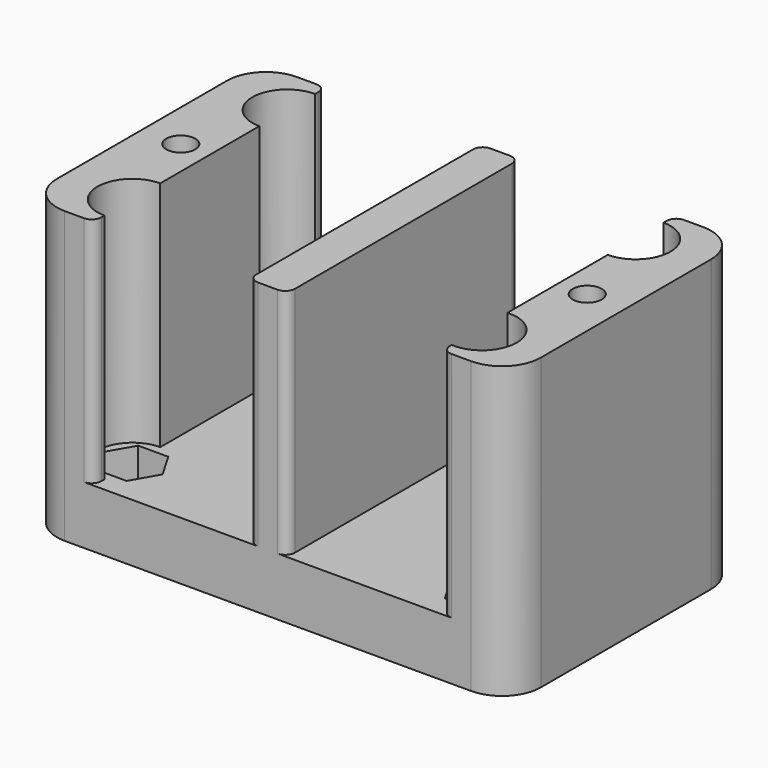
from build123d import *

# Parameters (mm, degrees)
SKETCH_W        = 50
SKETCH_H        = 30
SKETCH_R        = 1.7
PAD_DEPTH       = 30
SKETCH001_W     = 16
SKETCH001_H     = 35
POCKET_DEPTH    = 24
POCKET001_DEPTH = 4
SKETCH003_R     = 2.5
POCKET002_DEPTH = 1.7
SKETCH004_R     = 3.6
POCKET003_DEPTH = 24
POCKET004_DEPTH = 4
SKETCH006_R     = 1.5
POCKET005_DEPTH = 20
FILLET_R        = 4
FILLET001_R     = 4
FILLET002_R     = 4
FILLET003_R     = 4
FILLET004_R     = 1
FILLET005_R     = 1
FILLET006_R     = 1
FILLET007_R     = 1
FILLET008_R     = 1
FILLET009_R     = 1
FILLET010_R     = 1
FILLET011_R     = 1


with BuildPart() as part:
    # Sketch → Pad (new body)
    with BuildSketch(Plane.XY):
        Rectangle(SKETCH_W, SKETCH_H)
        with Locations((18, 10)):
            Circle(SKETCH_R, mode=Mode.SUBTRACT)
        with Locations((18, -10)):
            Circle(SKETCH_R, mode=Mode.SUBTRACT)
        with Locations((-18, -10)):
            Circle(SKETCH_R, mode=Mode.SUBTRACT)
        with Locations((-18, 10)):
            Circle(SKETCH_R, mode=Mode.SUBTRACT)
    extrude(amount=PAD_DEPTH)

    # Sketch001 → Pocket (cut)
    with BuildSketch(Plane.XY.offset(30)):
        with Locations((-10, 0)):
            Rectangle(SKETCH001_W, SKETCH001_H)
        with Locations((10, 0)):
            Rectangle(SKETCH001_W, SKETCH001_H)
    extrude(amount=-POCKET_DEPTH, mode=Mode.SUBTRACT)

    # Sketch002 → Pocket001 (cut)
    with BuildSketch(Plane(origin=(0, 0, 0), x_dir=(1, 0, 0), z_dir=(0, 0, -1))):
        Polygon((-12.309401, 4), (-14.618802, 0), (-12.309401, -4), (-7.690599, -4), (-5.381198, 0), (-7.690599, 4), align=None)
        Polygon((7.690599, 4), (5.381198, 0), (7.690599, -4), (12.309401, -4), (14.618802, 0), (12.309401, 4), align=None)
    extrude(amount=-POCKET001_DEPTH, mode=Mode.SUBTRACT)

    # Sketch003 → Pocket002 (cut)
    with BuildSketch(Plane.XY.offset(6)):
        with Locations((-10, 0)):
            Circle(SKETCH003_R)
        with Locations((10, 0)):
            Circle(SKETCH003_R)
    extrude(amount=-POCKET002_DEPTH, mode=Mode.SUBTRACT)

    # Sketch004 → Pocket003 (cut)
    with BuildSketch(Plane.XY.offset(30)):
        with Locations((-18, 10)):
            Circle(SKETCH004_R)
        with Locations((18, 10)):
            Circle(SKETCH004_R)
        with Locations((-18, -10)):
            Circle(SKETCH004_R)
        with Locations((18.251301, -10.165039)):
            Circle(SKETCH004_R)
    extrude(amount=-POCKET003_DEPTH, mode=Mode.SUBTRACT)

    # Sketch005 → Pocket004 (cut)
    with BuildSketch(Plane.XY.offset(6)):
        Polygon((-19.558846, 12.7), (-21.117691, 10), (-19.558846, 7.3), (-16.441154, 7.3), (-14.882309, 10), (-16.441154, 12.7), align=None)
        Polygon((16.441154, 12.7), (14.882309, 10), (16.441154, 7.3), (19.558846, 7.3), (21.117691, 10), (19.558846, 12.7), align=None)
        Polygon((16.441154, -7.3), (14.882309, -10), (16.441154, -12.7), (19.558846, -12.7), (21.117691, -10), (19.558846, -7.3), align=None)
        Polygon((-21.117691, -10), (-19.558846, -12.7), (-16.441154, -12.7), (-14.882309, -10), (-16.441154, -7.3), (-19.558846, -7.3), align=None)
    extrude(amount=-POCKET004_DEPTH, mode=Mode.SUBTRACT)

    # Sketch006 → Pocket005 (cut)
    with BuildSketch(Plane.XY.offset(30)):
        with Locations((-21, 0)):
            Circle(SKETCH006_R)
        with Locations((21, 0)):
            Circle(SKETCH006_R)
    extrude(amount=-POCKET005_DEPTH, mode=Mode.SUBTRACT)

    # Fillet
    fillet_edges = [part.edges().sort_by_distance(p)[0] for p in [
        (-25, -15, 15),
    ]]
    fillet(fillet_edges, radius=FILLET_R)

    # Fillet001
    fillet001_edges = [part.edges().sort_by_distance(p)[0] for p in [
        (25, -15, 15),
    ]]
    fillet(fillet001_edges, radius=FILLET001_R)

    # Fillet002
    fillet002_edges = [part.edges().sort_by_distance(p)[0] for p in [
        (25, 15, 15),
    ]]
    fillet(fillet002_edges, radius=FILLET002_R)

    # Fillet003
    fillet003_edges = [part.edges().sort_by_distance(p)[0] for p in [
        (-25, 15, 15),
    ]]
    fillet(fillet003_edges, radius=FILLET003_R)

    # Fillet004
    fillet004_edges = [part.edges().sort_by_distance(p)[0] for p in [
        (-2, -15, 18),
    ]]
    fillet(fillet004_edges, radius=FILLET004_R)

    # Fillet005
    fillet005_edges = [part.edges().sort_by_distance(p)[0] for p in [
        (2, -15, 18),
    ]]
    fillet(fillet005_edges, radius=FILLET005_R)

    # Fillet006
    fillet006_edges = [part.edges().sort_by_distance(p)[0] for p in [
        (-2, 15, 18),
    ]]
    fillet(fillet006_edges, radius=FILLET006_R)

    # Fillet007
    fillet007_edges = [part.edges().sort_by_distance(p)[0] for p in [
        (2, 15, 18),
    ]]
    fillet(fillet007_edges, radius=FILLET007_R)

    # Fillet008
    fillet008_edges = [part.edges().sort_by_distance(p)[0] for p in [
        (18, 15, 18),
    ]]
    fillet(fillet008_edges, radius=FILLET008_R)

    # Fillet009
    fillet009_edges = [part.edges().sort_by_distance(p)[0] for p in [
        (-18, 15, 18),
    ]]
    fillet(fillet009_edges, radius=FILLET009_R)

    # Fillet010
    fillet010_edges = [part.edges().sort_by_distance(p)[0] for p in [
        (-18, -15, 18),
    ]]
    fillet(fillet010_edges, radius=FILLET010_R)

    # Fillet011
    fillet011_edges = [part.edges().sort_by_distance(p)[0] for p in [
        (18, -15, 18),
    ]]
    fillet(fillet011_edges, radius=FILLET011_R)


solid = part.part
